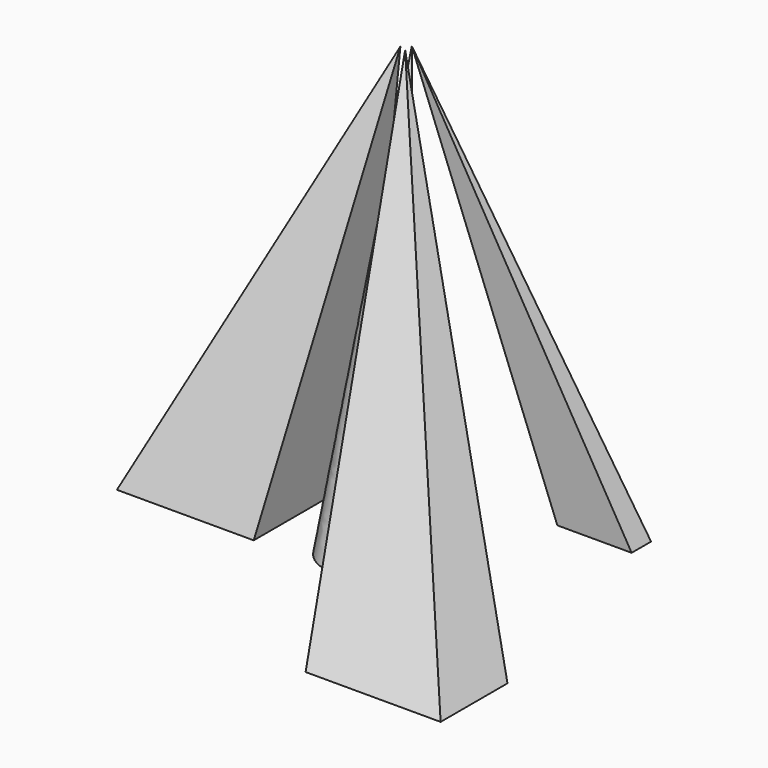
from build123d import *

# Parameters (mm, degrees)
F0_W   = 53.766724
F0_H   = 33.284154
F0_W_2 = 54.477919
F0_H_2 = 53.908958
F0_R   = 15.894327
F0_W_3 = 29.585917
F0_H_3 = 9.672321


with BuildPart() as f3:
    # F0 (on Top) → F3 section 0
    with BuildSketch(Plane.XY, mode=Mode.PRIVATE) as f3_s0:
        with Locations((62.23, -56.682641)):
            Rectangle(F0_W, F0_H)
    loft([f3_s0.sketch, Vertex(-19.305075, 44.537269, 152.4)])


with BuildPart() as f4:
    # F0 (on Top) → F4 section 0
    with BuildSketch(Plane.XY, mode=Mode.PRIVATE) as f4_s0:
        with Locations((-59.883041, 12.801599)):
            Rectangle(F0_W_2, F0_H_2)
    loft([f4_s0.sketch, Vertex(-21.920199, 45.445681, 152.4)])


with BuildPart() as f5:
    # F0 (on Top) → F5 section 0
    with BuildSketch(Plane.XY, mode=Mode.PRIVATE) as f5_s0:
        Circle(F0_R)
    loft([f5_s0.sketch, Vertex(-19.305075, 47.863759, 152.4)])


with BuildPart() as f6:
    # F0 (on Top) → F6 section 0
    with BuildSketch(Plane.XY, mode=Mode.PRIVATE) as f6_s0:
        with Locations((49.57064, 57.53608)):
            Rectangle(F0_W_3, F0_H_3)
    loft([f6_s0.sketch, Vertex(-19.305075, 47.863759, 152.4)])


solid = Compound([f3.part, f4.part, f5.part, f6.part])
